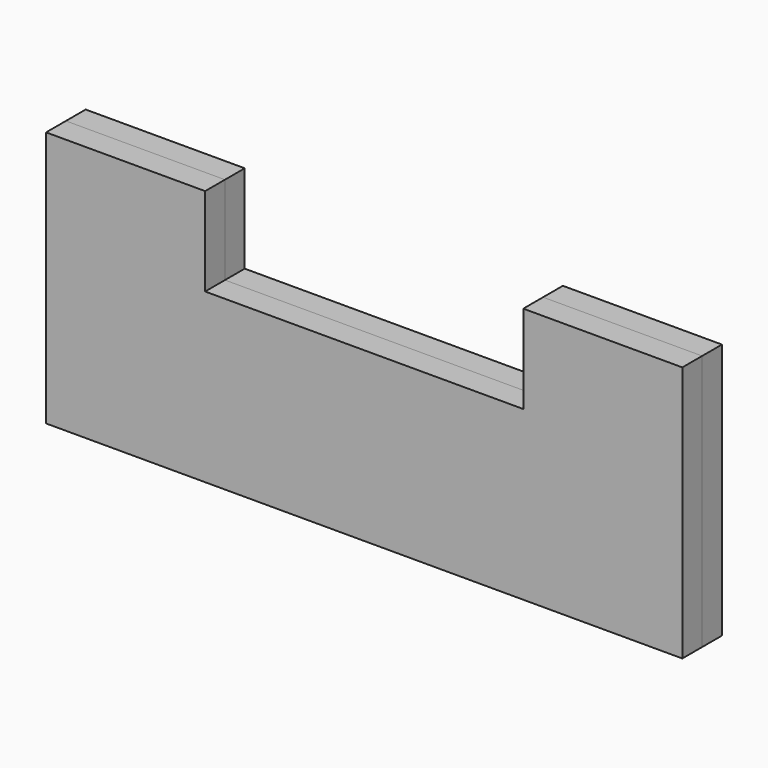
from build123d import *

# Parameters (mm, degrees)
F1_DEPTH = 7


with BuildPart() as f1:
    # F0 (on Front) → F1 (new body)
    with BuildSketch(Plane.XZ):
        Polygon((-72.21858, 96.245216), (-72.21858, 38.42797), (-72.21858, 23.745216), (107.78142, 23.745216), (107.78142, 96.245216), (62.78142, 96.245216), (62.78142, 71.245216), (-27.21858, 71.245216), (-27.21858, 96.245216), align=None)
    extrude(amount=F1_DEPTH)


with BuildPart() as f2_1:
    # F2: instance of F1
    add(f1.part.mirror(Plane.XZ))


solid = Compound([f1.part, f2_1.part])
